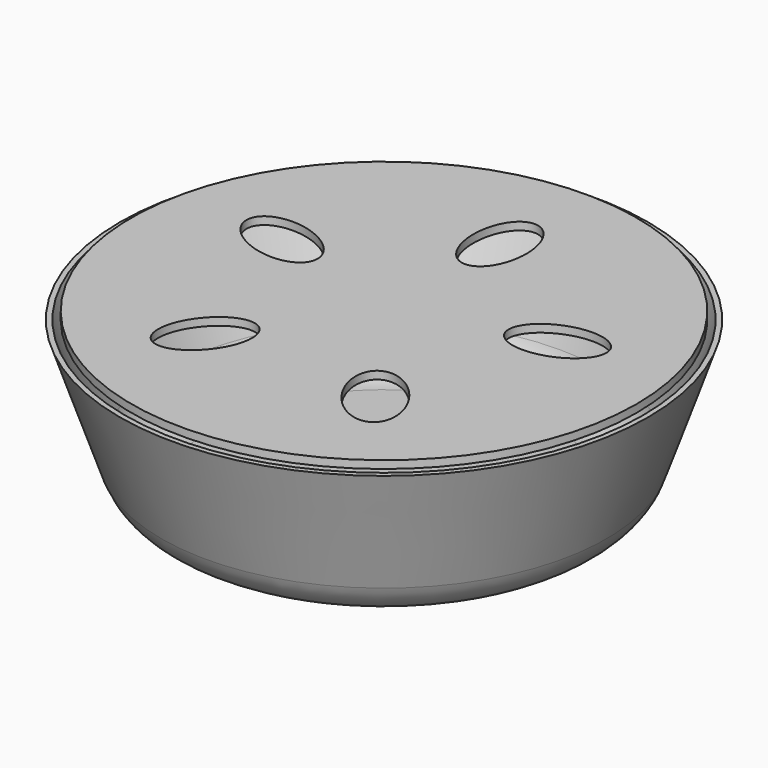
from build123d import *

# Parameters (mm, degrees)
F2_R     = 97.5
F3_DEPTH = 3
F6_DEPTH = 3


with BuildPart() as f1:
    # F0 (on Front) → F1 (revolve)
    with BuildSketch(Plane.XZ):
        with BuildLine():
            Line((-100, 60), (-102, 60))
            Line((-102, 60), (-85.958685, 13.480186))
            ThreePointArc((-85.958685, 13.480186), (-78.661646, 3.715095), (-67.051225, 0))
            Line((-67.051225, 0), (0, 0))
            Line((0, 0), (0, 2))
            Line((0, 2), (-65.74088, 2))
            ThreePointArc((-65.74088, 2), (-77.351301, 5.715095), (-84.64834, 15.480186))
            Line((-84.64834, 15.480186), (-100, 60))
        make_face()
    revolve(axis=Axis((0, 0, 1.660261), (0, 0, -1)))


with BuildPart() as f3:
    # F2 (on face) → F3 (new body)
    with BuildSketch(Plane.XY.offset(60)):
        Circle(F2_R)
    extrude(amount=F3_DEPTH)

    # F5 (on face) → F6 (cut, through all)
    with BuildSketch(Plane.XY.offset(63)):
        with BuildLine():
            add(Edge.make_bspline(
                [(0, 39.121769), (17.713864, 39.121769), (8.856932, 64.327745), (0, 89.53372), (-8.856932, 64.327745), (-17.713864, 39.121769), (0, 39.121769)],
                knots=[0, 0, 0, 2.094395, 2.094395, 4.18879, 4.18879, 6.283185, 6.283185, 6.283185], degree=2, weights=[1, 0.5, 1, 0.5, 1, 0.5, 1]))
        make_face()
        with BuildLine():
            add(Edge.make_bspline(
                [(-37.207014, 12.089292), (-31.733129, 28.936177), (-58.442378, 28.301809), (-85.151628, 27.667441), (-63.916263, 11.454924), (-42.680899, -4.757594), (-37.207014, 12.089292)],
                knots=[0, 0, 0, 2.094395, 2.094395, 4.18879, 4.18879, 6.283185, 6.283185, 6.283185], degree=2, weights=[1, 0.5, 1, 0.5, 1, 0.5, 1]))
        make_face()
        with BuildLine():
            add(Edge.make_bspline(
                [(-22.995199, -31.650176), (-37.326016, -21.238228), (-44.976308, -46.836265), (-52.6266, -72.434301), (-30.645491, -57.248213), (-8.664382, -42.062124), (-22.995199, -31.650176)],
                knots=[0, 0, 0, 2.094395, 2.094395, 4.18879, 4.18879, 6.283185, 6.283185, 6.283185], degree=2, weights=[1, 0.5, 1, 0.5, 1, 0.5, 1]))
        make_face()
        with BuildLine():
            add(Edge.make_bspline(
                [(22.995199, -31.650176), (8.664382, -42.062124), (30.645491, -57.248213), (52.6266, -72.434301), (44.976308, -46.836265), (37.326016, -21.238228), (22.995199, -31.650176)],
                knots=[0, 0, 0, 2.094395, 2.094395, 4.18879, 4.18879, 6.283185, 6.283185, 6.283185], degree=2, weights=[1, 0.5, 1, 0.5, 1, 0.5, 1]))
        make_face()
        with BuildLine():
            add(Edge.make_bspline(
                [(37.207014, 12.089292), (42.680899, -4.757594), (63.916263, 11.454924), (85.151628, 27.667441), (58.442378, 28.301809), (31.733129, 28.936177), (37.207014, 12.089292)],
                knots=[0, 0, 0, 2.094395, 2.094395, 4.18879, 4.18879, 6.283185, 6.283185, 6.283185], degree=2, weights=[1, 0.5, 1, 0.5, 1, 0.5, 1]))
        make_face()
    extrude(amount=-F6_DEPTH, mode=Mode.SUBTRACT)


solid = Compound([f1.part, f3.part])
